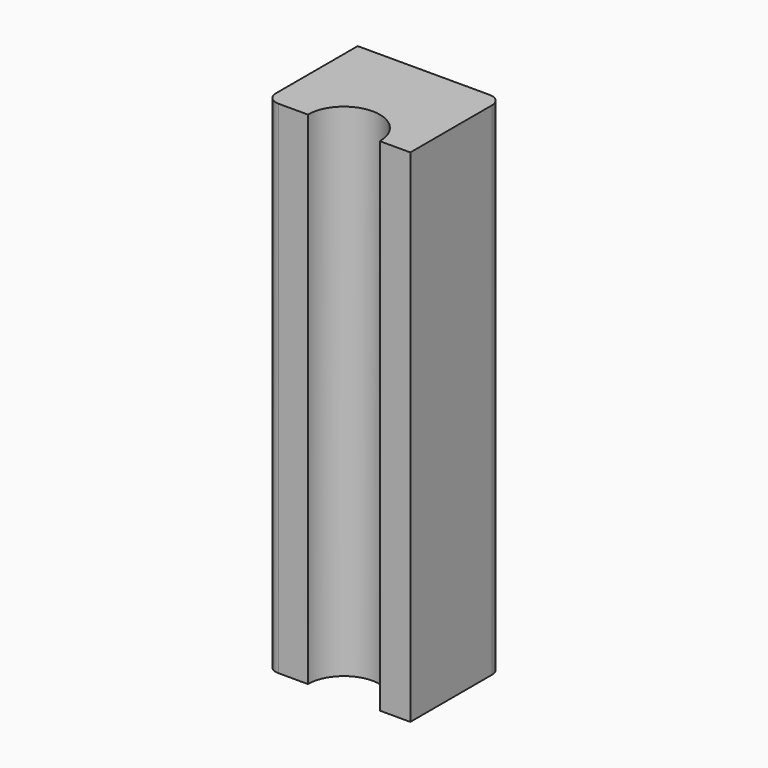
from build123d import *

# Parameters (mm, degrees)
F1_DEPTH = 127


with BuildPart() as f1:
    # F0 (on Top) → F1 (new body, symmetric)
    with BuildSketch(Plane.XY):
        with BuildLine():
            ThreePointArc((-33.009991, -22.410832), (-31.150119, -26.90096), (-26.659991, -28.760832))
            Line((-26.659991, -28.760832), (-11.74327, -28.760832))
            ThreePointArc((-11.74327, -28.760832), (6.484724, -10.532838), (24.712717, -28.760832))
            Line((24.712717, -28.760832), (40.160779, -28.760832))
            Line((40.160779, -28.760832), (40.160779, 23.01116))
            ThreePointArc((40.160779, 23.01116), (38.300907, 27.501289), (33.810779, 29.36116))
            Line((33.810779, 29.36116), (-33.009991, 29.36116))
            Line((-33.009991, 29.36116), (-33.009991, -22.410832))
        make_face()
    extrude(amount=F1_DEPTH, both=True)


solid = f1.part
